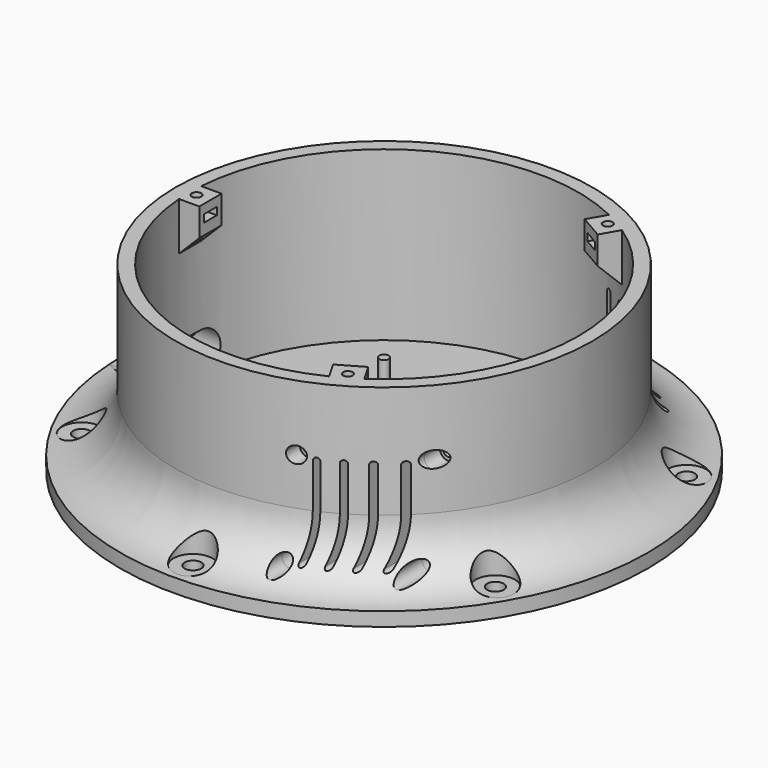
from build123d import *

# Parameters (mm, degrees)
CYLINDER_R               = 2.95
CYLINDER_DEPTH           = 7
CYLINDER001_R            = 1.7
CYLINDER001_DEPTH        = 30
PAD002_DEPTH             = 2.7
CYLINDER1049_R           = 3.4
CYLINDER1049_DEPTH       = 10
PAD046_DEPTH             = 10
CYLINDER1050_R           = 3
CYLINDER1050_DEPTH       = 15
CYLINDER1051_R           = 7
CYLINDER1051_DEPTH       = 15
PAD050_DEPTH             = 100
CLONE444_PITCH_ANGLE     = 90
CLONE444_PLACEMENT_ANGLE = 90
CLONE445_PITCH_ANGLE     = 90
CLONE445_PLACEMENT_ANGLE = 90
CLONE446_PITCH_ANGLE     = 90
CLONE446_PLACEMENT_ANGLE = 90
CLONE447_PITCH_ANGLE     = 90
CLONE447_PLACEMENT_ANGLE = 90
BOX_W                    = 42
BOX_H                    = 7
BOX_DEPTH                = 42
CYLINDER1052_R           = 1.7
CYLINDER1052_DEPTH       = 21
CYLINDER1052_ROLL_ANGLE  = 90
CYLINDER1053_R           = 2.95
CYLINDER1053_DEPTH       = 21
CYLINDER1053_ROLL_ANGLE  = 90
CYLINDER1054_R           = 2.95
CYLINDER1054_DEPTH       = 21
CYLINDER1054_ROLL_ANGLE  = 90
CYLINDER1055_R           = 2.95
CYLINDER1055_DEPTH       = 21
CYLINDER1055_ROLL_ANGLE  = 90
CYLINDER1056_R           = 1.7
CYLINDER1056_DEPTH       = 21
CYLINDER1056_ROLL_ANGLE  = 90
PAD047_DEPTH             = 40
ARRAY024_COUNT           = 6
CLONE398_PLACEMENT_ANGLE = 180
ARRAY023_COUNT           = 3
ARRAY022_COUNT           = 3
PAD_DEPTH                = 47


with BuildPart() as m3bolthead:
    # Cylinder → Cylinder (new body)
    with BuildSketch(Plane.XY):
        Circle(CYLINDER_R)
    extrude(amount=CYLINDER_DEPTH)


with BuildPart() as m3bolt:
    # Cylinder001 → Cylinder001 (new body)
    with BuildSketch(Plane.XY.offset(6)):
        Circle(CYLINDER001_R)
    extrude(amount=CYLINDER001_DEPTH)

    # Fusion: union M3BoltHead
    add(m3bolthead.part)


with BuildPart() as m3nuthousing:
    # Sketch003 → Pad002 (new body)
    with BuildSketch(Plane.XY):
        Polygon((0, 0), (1.674316, 2.9), (21.674316, 2.9), (21.674316, -2.9), (1.674316, -2.9), align=None)
    extrude(amount=PAD002_DEPTH)


with BuildPart() as obj1:
    # Cylinder1049 → Cylinder1049 (new body)
    with BuildSketch(Plane.XY):
        Circle(CYLINDER1049_R)
    extrude(amount=CYLINDER1049_DEPTH)


with BuildPart() as obj2:
    # Sketch077 → Pad046 (new body)
    with BuildSketch(Plane.XZ):
        Polygon((0, 0), (0, 20), (10, 20), (10, 10), align=None)
    extrude(amount=PAD046_DEPTH)


with BuildPart() as m6bolt:
    # Cylinder1050 → Cylinder1050 (new body)
    with BuildSketch(Plane.XY):
        Circle(CYLINDER1050_R)
    extrude(amount=CYLINDER1050_DEPTH)


with BuildPart() as m6washer:
    # Cylinder1051 → Cylinder1051 (new body)
    with BuildSketch(Plane.XY):
        Circle(CYLINDER1051_R)
    extrude(amount=CYLINDER1051_DEPTH)


with BuildPart() as pad050:
    # Sketch082 → Pad050 (new body, symmetric)
    with BuildSketch(Plane(origin=(44.5, 0, 11), x_dir=(1, 0, 0), z_dir=(0, -1, 0))):
        with BuildLine():
            ThreePointArc((1, 30), (0, 31), (-1, 30))
            Line((-1, 30), (-1, 0))
            ThreePointArc((-1, 0), (0, -1), (1, 0))
            Line((1, 30), (1, 0))
        make_face()
    extrude(amount=PAD050_DEPTH, both=True)


with BuildPart() as clone_of_pad050:
    # Clone base: copy of Pad050
    add(pad050.part)


with BuildPart() as clone_of_pad050_1:
    # Clone placement: moved
    add(clone_of_pad050.part.moved(Location((7, 0, 0))))


with BuildPart() as clone_of_pad052:
    # Clone402 base: copy of Pad050
    add(pad050.part)


with BuildPart() as clone_of_pad052_1:
    # Clone402 placement: moved
    add(clone_of_pad052.part.moved(Location((-7, 0, 0))))


with BuildPart() as clone_of_pad053:
    # Clone403 base: copy of Pad050
    add(pad050.part)


with BuildPart() as clone_of_pad053_1:
    # Clone403 placement: moved
    add(clone_of_pad053.part.moved(Location((-14, 0, 0))))


with BuildPart() as clone_of_m3bolt130:
    # Clone444 base: copy of M3Bolt
    add(m3bolt.part)


with BuildPart() as clone_of_m3bolt130_1:
    # Clone444 pitch: moved
    add(clone_of_m3bolt130.part.rotate(Axis((0, 0, 0), (0, 1, 0)), CLONE444_PITCH_ANGLE))


with BuildPart() as clone_of_m3bolt130_2:
    # Clone444 placement: moved
    add(clone_of_m3bolt130_1.part.moved(Location((57, -50.5, 10))).rotate(Axis((57, -50.5, 10), (0, 0, 1)), CLONE444_PLACEMENT_ANGLE))


with BuildPart() as clone_of_m3bolt131:
    # Clone445 base: copy of M3Bolt
    add(m3bolt.part)


with BuildPart() as clone_of_m3bolt131_1:
    # Clone445 pitch: moved
    add(clone_of_m3bolt131.part.rotate(Axis((0, 0, 0), (0, 1, 0)), CLONE445_PITCH_ANGLE))


with BuildPart() as clone_of_m3bolt131_2:
    # Clone445 placement: moved
    add(clone_of_m3bolt131_1.part.moved(Location((25, -73.5, 10))).rotate(Axis((25, -73.5, 10), (0, 0, 1)), CLONE445_PLACEMENT_ANGLE))


with BuildPart() as clone_of_m3bolt132:
    # Clone446 base: copy of M3Bolt
    add(m3bolt.part)


with BuildPart() as clone_of_m3bolt132_1:
    # Clone446 pitch: moved
    add(clone_of_m3bolt132.part.rotate(Axis((0, 0, 0), (0, 1, 0)), CLONE446_PITCH_ANGLE))


with BuildPart() as clone_of_m3bolt132_2:
    # Clone446 placement: moved
    add(clone_of_m3bolt132_1.part.moved(Location((57, -49.5, 42))).rotate(Axis((57, -49.5, 42), (0, 0, 1)), CLONE446_PLACEMENT_ANGLE))


with BuildPart() as clone_of_m3bolt133:
    # Clone447 base: copy of M3Bolt
    add(m3bolt.part)


with BuildPart() as clone_of_m3bolt133_1:
    # Clone447 pitch: moved
    add(clone_of_m3bolt133.part.rotate(Axis((0, 0, 0), (0, 1, 0)), CLONE447_PITCH_ANGLE))


with BuildPart() as clone_of_m3bolt133_2:
    # Clone447 placement: moved
    add(clone_of_m3bolt133_1.part.moved(Location((25, -72.5, 42))).rotate(Axis((25, -72.5, 42), (0, 0, 1)), CLONE447_PLACEMENT_ANGLE))


with BuildPart() as cube:
    # Box → Box (new body)
    with BuildSketch(Plane(origin=(21, -36, 5), x_dir=(1, 0, 0), z_dir=(0, 0, 1))):
        with Locations((21, 3.5)):
            Rectangle(BOX_W, BOX_H)
    extrude(amount=BOX_DEPTH)


with BuildPart() as cylinder:
    # Cylinder1052 → Cylinder1052 (new body)
    with BuildSketch(Plane.XY):
        Circle(CYLINDER1052_R)
    extrude(amount=CYLINDER1052_DEPTH)


with BuildPart() as cylinder_1:
    # Cylinder1052 roll: moved
    add(cylinder.part.rotate(Axis((0, 0, 0), (1, 0, 0)), CYLINDER1052_ROLL_ANGLE))


with BuildPart() as cylinder_2:
    # Cylinder1052 placement: moved
    add(cylinder_1.part.moved(Location((25, -16.5, 42))))


with BuildPart() as cylinder001:
    # Cylinder1053 → Cylinder1053 (new body)
    with BuildSketch(Plane.XY):
        Circle(CYLINDER1053_R)
    extrude(amount=CYLINDER1053_DEPTH)


with BuildPart() as cylinder001_1:
    # Cylinder1053 roll: moved
    add(cylinder001.part.rotate(Axis((0, 0, 0), (1, 0, 0)), CYLINDER1053_ROLL_ANGLE))


with BuildPart() as cylinder001_2:
    # Cylinder1053 placement: moved
    add(cylinder001_1.part.moved(Location((57, -50.5, 10))))


with BuildPart() as cylinder002:
    # Cylinder1054 → Cylinder1054 (new body)
    with BuildSketch(Plane.XY):
        Circle(CYLINDER1054_R)
    extrude(amount=CYLINDER1054_DEPTH)


with BuildPart() as cylinder002_1:
    # Cylinder1054 roll: moved
    add(cylinder002.part.rotate(Axis((0, 0, 0), (1, 0, 0)), CYLINDER1054_ROLL_ANGLE))


with BuildPart() as cylinder002_2:
    # Cylinder1054 placement: moved
    add(cylinder002_1.part.moved(Location((25, -73.5, 10))))


with BuildPart() as cylinder003:
    # Cylinder1055 → Cylinder1055 (new body)
    with BuildSketch(Plane.XY):
        Circle(CYLINDER1055_R)
    extrude(amount=CYLINDER1055_DEPTH)


with BuildPart() as cylinder003_1:
    # Cylinder1055 roll: moved
    add(cylinder003.part.rotate(Axis((0, 0, 0), (1, 0, 0)), CYLINDER1055_ROLL_ANGLE))


with BuildPart() as cylinder003_2:
    # Cylinder1055 placement: moved
    add(cylinder003_1.part.moved(Location((57, -49.5, 42))))


with BuildPart() as cylinder004:
    # Cylinder1056 → Cylinder1056 (new body)
    with BuildSketch(Plane.XY):
        Circle(CYLINDER1056_R)
    extrude(amount=CYLINDER1056_DEPTH)


with BuildPart() as cylinder004_1:
    # Cylinder1056 roll: moved
    add(cylinder004.part.rotate(Axis((0, 0, 0), (1, 0, 0)), CYLINDER1056_ROLL_ANGLE))


with BuildPart() as cylinder004_2:
    # Cylinder1056 placement: moved
    add(cylinder004_1.part.moved(Location((25, -17.5, 10))))


with BuildPart() as fusion150:
    # Fusion150 base: copy of Pad050
    add(pad050.part)

    # Fusion150: union Clone of Pad050, Clone of Pad052, Clone of Pad053, Clone of M3Bolt130, Clone of M3Bolt131, Clone of M3Bolt132, Clone of M3Bolt133, Cube, Cylinder, Cylinder001, Cylinder002, Cylinder003, Cylinder004
    add(clone_of_pad050_1.part)
    add(clone_of_pad052_1.part)
    add(clone_of_pad053_1.part)
    add(clone_of_m3bolt130_2.part)
    add(clone_of_m3bolt131_2.part)
    add(clone_of_m3bolt132_2.part)
    add(clone_of_m3bolt133_2.part)
    add(cube.part)
    add(cylinder_2.part)
    add(cylinder001_2.part)
    add(cylinder002_2.part)
    add(cylinder003_2.part)
    add(cylinder004_2.part)


with BuildPart() as pad047:
    # Sketch078 → Pad047 (new body)
    with BuildSketch(Plane(origin=(-60, 0, 12.5), x_dir=(0, -1, 0), z_dir=(-1, 0, 0))):
        with BuildLine():
            ThreePointArc((-5, 7.5), (-12.5, 0), (-5, -7.5))
            Line((-5, -7.5), (5, -7.5))
            ThreePointArc((5, -7.5), (12.5, 0), (5, 7.5))
            Line((-5, 7.5), (5, 7.5))
        make_face()
    extrude(amount=PAD047_DEPTH)


with BuildPart() as clone_of_m6washer:
    # Clone400 base: copy of M6Washer
    add(m6washer.part)


with BuildPart() as clone_of_m6washer_1:
    # Clone400 placement: moved
    add(clone_of_m6washer.part.moved(Location((0, 86, 5))))


with BuildPart() as array024:
    # Clone399 base: copy of M6Bolt
    add(m6bolt.part)


with BuildPart() as array024_1:
    # Clone399 placement: moved
    add(array024.part.moved(Location((0, 86, 0))))

    # Fusion148: union Clone of M6Washer
    add(clone_of_m6washer_1.part)

    # Array024: Array024 ×6 about axis
    array024_axis = Axis((0, 0, 0), (0, 0, 1))


with BuildPart() as array024_2:
    add(array024_1.part)
    for i in range(1, ARRAY024_COUNT):
        add(array024_1.part.rotate(array024_axis, i * 360 / ARRAY024_COUNT))


with BuildPart() as clone_of_m3bolt129:
    # Clone398 base: copy of M3Bolt
    add(m3bolt.part)


with BuildPart() as clone_of_m3bolt129_1:
    # Clone398 placement: moved
    add(clone_of_m3bolt129.part.moved(Location((-67.5, 0, 81.5))).rotate(Axis((-67.5, 0, 81.5), (0, 1, 0)), CLONE398_PLACEMENT_ANGLE))


with BuildPart() as array023:
    # Clone397 base: copy of M3NutHousing
    add(m3nuthousing.part)


with BuildPart() as array023_1:
    # Clone397 placement: moved
    add(array023.part.moved(Location((-71, 0, 59.5))))

    # Fusion146: union Clone of M3Bolt129
    add(clone_of_m3bolt129_1.part)

    # Array023: Array023 ×3 about axis
    array023_axis = Axis((0, 0, 0), (0, 0, 1))


with BuildPart() as array023_2:
    add(array023_1.part)
    for i in range(1, ARRAY023_COUNT):
        add(array023_1.part.rotate(array023_axis, i * 360 / ARRAY023_COUNT))


with BuildPart() as array022:
    # Clone396 base: copy of obj2
    add(obj2.part)


with BuildPart() as array022_1:
    # Clone396 placement: moved
    add(array022.part.moved(Location((-72.5, 5, 45.5))))

    # Array022: Array022 ×3 about axis
    array022_axis = Axis((0, 0, 0), (0, 0, 1))


with BuildPart() as array022_2:
    add(array022_1.part)
    for i in range(1, ARRAY022_COUNT):
        add(array022_1.part.rotate(array022_axis, i * 360 / ARRAY022_COUNT))


with BuildPart() as obj3:
    # Clone385 base: copy of obj1
    add(obj1.part)


with BuildPart() as obj3_1:
    # Clone385 placement: moved
    add(obj3.part.moved(Location((55.5, -15.5, -7.5))))


with BuildPart() as obj4:
    # Clone386 base: copy of obj1
    add(obj1.part)


with BuildPart() as obj4_1:
    # Clone386 placement: moved
    add(obj4.part.moved(Location((24.5, 15.5, -7.5))))


with BuildPart() as obj5:
    # Clone387 base: copy of obj1
    add(obj1.part)


with BuildPart() as obj5_1:
    # Clone387 placement: moved
    add(obj5.part.moved(Location((24.5, -15.5, -7.5))))


with BuildPart() as clone_of_m3bolt124:
    # Clone388 base: copy of M3Bolt
    add(m3bolt.part)


with BuildPart() as clone_of_m3bolt124_1:
    # Clone388 placement: moved
    add(clone_of_m3bolt124.part.moved(Location((24.5, -15.5, -14.5))))


with BuildPart() as clone_of_m3bolt125:
    # Clone389 base: copy of M3Bolt
    add(m3bolt.part)


with BuildPart() as clone_of_m3bolt125_1:
    # Clone389 placement: moved
    add(clone_of_m3bolt125.part.moved(Location((24.5, 15.5, -14.5))))


with BuildPart() as clone_of_m3bolt126:
    # Clone390 base: copy of M3Bolt
    add(m3bolt.part)


with BuildPart() as clone_of_m3bolt126_1:
    # Clone390 placement: moved
    add(clone_of_m3bolt126.part.moved(Location((55.5, 15.5, -14.5))))


with BuildPart() as clone_of_m3bolt127:
    # Clone391 base: copy of M3Bolt
    add(m3bolt.part)


with BuildPart() as clone_of_m3bolt127_1:
    # Clone391 placement: moved
    add(clone_of_m3bolt127.part.moved(Location((55.5, -15.5, -14.5))))


with BuildPart() as fusion145:
    # Clone384 base: copy of obj1
    add(obj1.part)


with BuildPart() as fusion145_1:
    # Clone384 placement: moved
    add(fusion145.part.moved(Location((55.5, 15.5, -7.5))))

    # Fusion145: union obj3, obj4, obj5, Clone of M3Bolt124, Clone of M3Bolt125, Clone of M3Bolt126, Clone of M3Bolt127
    add(obj3_1.part)
    add(obj4_1.part)
    add(obj5_1.part)
    add(clone_of_m3bolt124_1.part)
    add(clone_of_m3bolt125_1.part)
    add(clone_of_m3bolt126_1.part)
    add(clone_of_m3bolt127_1.part)


with BuildPart() as cut:
    # Sketch075 → Revolution020 (revolve)
    with BuildSketch(Plane.XZ):
        with BuildLine():
            Line((0, 0), (95, 0))
            Line((95, 0), (95, 5))
            ThreePointArc((75, 25.000051), (80.857846, 10.857882), (95, 5))
            Line((75, 65.5), (75, 25.000051))
            Line((70, 65.5), (75, 65.5))
            Line((70, 5), (70, 65.5))
            Line((0, 5), (70, 5))
            Line((0, 0), (0, 5))
        make_face()
    revolve(axis=Axis((0, 0, 0), (0, 0, 1)))

    # Cut127: cut Fusion145
    add(fusion145_1.part, mode=Mode.SUBTRACT)

    # Fusion147: union Array022
    add(array022_2.part)

    # Cut129: cut Array023
    add(array023_2.part, mode=Mode.SUBTRACT)

    # Cut130: cut Array024
    add(array024_2.part, mode=Mode.SUBTRACT)

    # Cut: cut Pad047
    add(pad047.part, mode=Mode.SUBTRACT)


with BuildPart() as basebotsmall:
    # Sketch → Pad (new body)
    with BuildSketch(Plane.XY):
        with BuildLine():
            Line((21.589684, -35.851807), (21.589684, -69.734393))
            ThreePointArc((21.589684, -69.734393), (45.835452, -56.816471), (63.589684, -35.851807))
            Line((21.589684, -35.851807), (63.589684, -35.851807))
        make_face()
    extrude(amount=PAD_DEPTH)

    # Fusion151: union Cut
    add(cut.part)

    # Cut131: cut Fusion150
    add(fusion150.part, mode=Mode.SUBTRACT)


solid = Compound([m3bolt.part, m3nuthousing.part, obj1.part, obj2.part, m6bolt.part, m6washer.part, basebotsmall.part])
